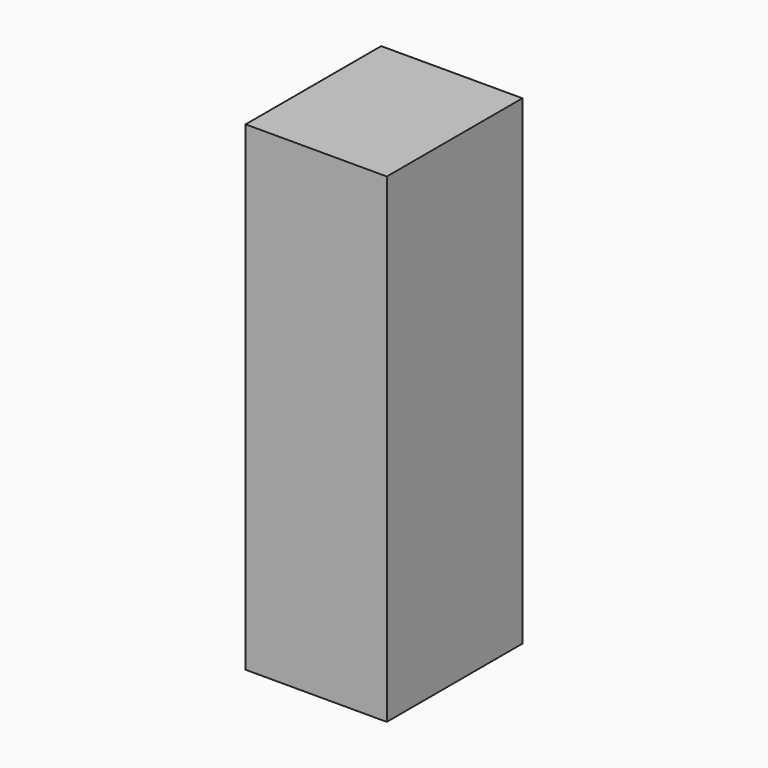
from build123d import *

# Parameters (mm, degrees)
CYLINDER004_R          = 20
CYLINDER004_DEPTH      = 20
CYLINDER005_R          = 20
CYLINDER005_DEPTH      = 20
CYLINDER003_R          = 20
CYLINDER003_DEPTH      = 20
BOX009_W               = 170
BOX009_H               = 60
BOX009_DEPTH           = 50
CUT006_PLACEMENT_ANGLE = 90


with BuildPart() as cylinder003:
    # Cylinder004 → Cylinder004 (new body)
    with BuildSketch(Plane(origin=(83, 579, 175), x_dir=(1, 0, 0), z_dir=(0, 0, 1))):
        Circle(CYLINDER004_R)
    extrude(amount=CYLINDER004_DEPTH)


with BuildPart() as cylinder004:
    # Cylinder005 → Cylinder005 (new body)
    with BuildSketch(Plane(origin=(134, 579, 175), x_dir=(1, 0, 0), z_dir=(0, 0, 1))):
        Circle(CYLINDER005_R)
    extrude(amount=CYLINDER005_DEPTH)


with BuildPart() as cylinder002:
    # Cylinder003 → Cylinder003 (new body)
    with BuildSketch(Plane(origin=(33, 579, 175), x_dir=(1, 0, 0), z_dir=(0, 0, 1))):
        Circle(CYLINDER003_R)
    extrude(amount=CYLINDER003_DEPTH)


with BuildPart() as obj1:
    # Box009 → Box009 (new body)
    with BuildSketch(Plane(origin=(0, 549, 145), x_dir=(1, 0, 0), z_dir=(0, 0, 1))):
        with Locations((85, 30)):
            Rectangle(BOX009_W, BOX009_H)
    extrude(amount=BOX009_DEPTH)

    # Cut004: cut Cylinder002
    add(cylinder002.part, mode=Mode.SUBTRACT)

    # Cut005: cut Cylinder004
    add(cylinder004.part, mode=Mode.SUBTRACT)

    # Cut006: cut Cylinder003
    add(cylinder003.part, mode=Mode.SUBTRACT)


with BuildPart() as obj1_1:
    # Cut006 placement: moved
    add(obj1.part.moved(Location((363, -579, 130))).rotate(Axis((363, -579, 130), (0, -1, 0)), CUT006_PLACEMENT_ANGLE))


solid = obj1_1.part
